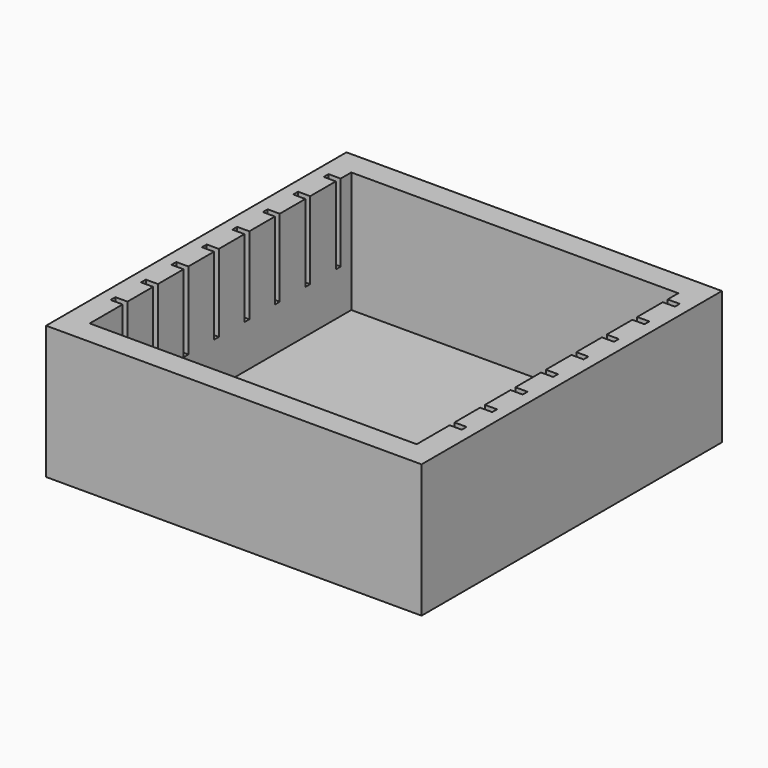
from build123d import *

# Parameters (mm, degrees)
SKETCH_W            = 155
SKETCH_H            = 155
PAD_DEPTH           = 55
SKETCH001_W         = 135
SKETCH001_H         = 135
POCKET_DEPTH        = 110
SKETCH002_W         = 145
SKETCH002_H         = 2.5
POCKET001_DEPTH     = 92
LINEARPATTERN_COUNT = 8
LINEARPATTERN_PITCH = 15.714286


with BuildPart() as part:
    # Sketch → Pad (new body)
    with BuildSketch(Plane.XY):
        Rectangle(SKETCH_W, SKETCH_H)
    extrude(amount=PAD_DEPTH)

    # Sketch001 → Pocket (cut)
    with BuildSketch(Plane.XY.offset(115)):
        Rectangle(SKETCH001_W, SKETCH001_H)
    extrude(amount=-POCKET_DEPTH, mode=Mode.SUBTRACT)

    # Sketch002 → Pocket001 (cut)
    with BuildSketch(Plane.XY.offset(115)):
        with Locations((0, 60.75)):
            Rectangle(SKETCH002_W, SKETCH002_H)
    pocket001 = extrude(amount=-POCKET001_DEPTH, mode=Mode.SUBTRACT)

    # LinearPattern: Pocket001 ×8
    with Locations(*[(0, -i * LINEARPATTERN_PITCH, 0) for i in range(1, LINEARPATTERN_COUNT)]):
        add(pocket001, mode=Mode.SUBTRACT)


solid = part.part
